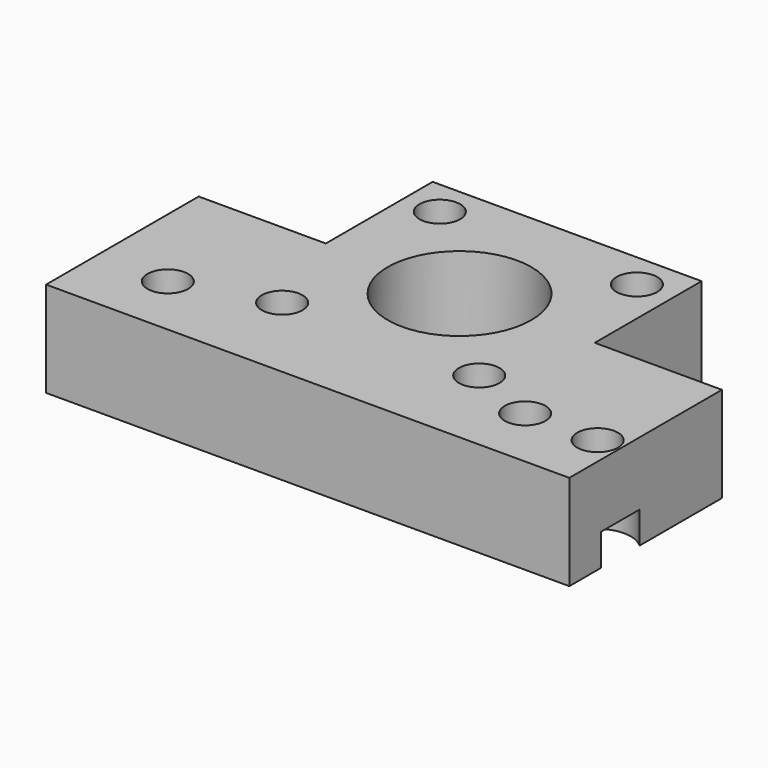
from build123d import *

# Parameters (mm, degrees)
SKETCH_R        = 11.3
SKETCH_R_2      = 1.6
SKETCH_R_3      = 3.2
PAD_DEPTH       = 15
SKETCH001_R     = 3.2
POCKET_DEPTH    = 4
SKETCH002_R     = 5.2
POCKET001_DEPTH = 5


with BuildPart() as part:
    # Sketch → Pad (new body)
    with BuildSketch(Plane.XY):
        Polygon((20, 30), (20, 51), (62.3, 51), (62.3, 30), (82.3, 30), (82.3, 0), (0, 0), (0, 30), align=None)
        with Locations((41.15, 29.85)):
            Circle(SKETCH_R, mode=Mode.SUBTRACT)
        with Locations((25.65, 45.35)):
            Circle(SKETCH_R_2, mode=Mode.SUBTRACT)
        with Locations((25.65, 14.35)):
            Circle(SKETCH_R_2, mode=Mode.SUBTRACT)
        with Locations((56.65, 45.35)):
            Circle(SKETCH_R_2, mode=Mode.SUBTRACT)
        with Locations((56.65, 14.35)):
            Circle(SKETCH_R_2, mode=Mode.SUBTRACT)
        with Locations((11.15, 10)):
            Circle(SKETCH_R_3, mode=Mode.SUBTRACT)
        with Locations((67.35, 10)):
            Circle(SKETCH_R_3, mode=Mode.SUBTRACT)
        with Locations((78.75, 10)):
            Circle(SKETCH_R_3, mode=Mode.SUBTRACT)
    extrude(amount=PAD_DEPTH)

    # Sketch001 (on Face18 of Pad) → Pocket (cut)
    with BuildSketch(Plane.XY.offset(15)):
        with Locations((25.65, 45.35)):
            Circle(SKETCH001_R)
        with Locations((56.65, 45.35)):
            Circle(SKETCH001_R)
        with Locations((56.65, 14.35)):
            Circle(SKETCH001_R)
        with Locations((25.65, 14.35)):
            Circle(SKETCH001_R)
    extrude(amount=-POCKET_DEPTH, mode=Mode.SUBTRACT)

    # Sketch002 (on Face4 of Pocket) → Pocket001 (cut)
    with BuildSketch(Plane(origin=(0, 0, 0), x_dir=(1, 0, 0), z_dir=(0, 0, -1))):
        with Locations((11.15, -10)):
            Circle(SKETCH002_R)
        with Locations((67.35, -10)):
            Circle(SKETCH002_R)
        with Locations((78.75, -10)):
            Circle(SKETCH002_R)
    extrude(amount=-POCKET001_DEPTH, mode=Mode.SUBTRACT)


solid = part.part
